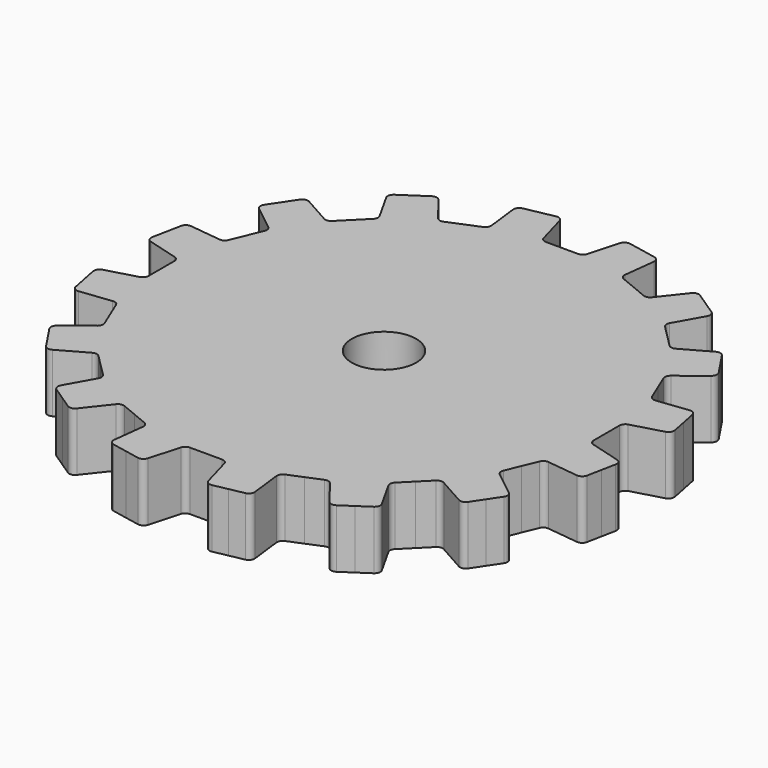
from build123d import *

# Parameters (mm, degrees)
F1_R     = 5.5
F2_DEPTH = 10


with BuildPart() as f2:
    # F1 (on Top) → F2 (new body)
    with BuildSketch(Plane.XY):
        with BuildLine():
            Line((2.75, 38), (0, 38))
            Line((0, 38), (-2.75, 38))
            ThreePointArc((-2.75, 38), (-3.353931, 38.202963), (-3.71271, 38.729465))
            Line((-3.71271, 38.729465), (-5.169301, 43.912813))
            ThreePointArc((-5.169301, 43.912813), (-5.609111, 44.494672), (-6.327101, 44.623063))
            Line((-6.327101, 44.623063), (-8.779064, 44.135338))
            Line((-8.779064, 44.135338), (-11.231028, 43.647612))
            ThreePointArc((-11.231028, 43.647612), (-11.845231, 43.254231), (-12.028895, 42.548355))
            Line((-12.028895, 42.548355), (-11.391028, 37.202153))
            ThreePointArc((-11.391028, 37.202153), (-11.521013, 36.57843), (-12.001302, 36.159802))
            Line((-12.001302, 36.159802), (-14.54197, 35.107422))
            Line((-14.54197, 35.107422), (-17.082639, 34.055043))
            ThreePointArc((-17.082639, 34.055043), (-17.718269, 34.011442), (-18.251222, 34.360568))
            Line((-18.251222, 34.360568), (-21.580517, 38.591943))
            ThreePointArc((-21.580517, 38.591943), (-22.209517, 38.961203), (-22.921986, 38.805058))
            Line((-22.921986, 38.805058), (-25.00066, 37.416133))
            Line((-25.00066, 37.416133), (-27.079335, 36.027207))
            ThreePointArc((-27.079335, 36.027207), (-27.496244, 35.428725), (-27.3958, 34.706295))
            Line((-27.3958, 34.706295), (-24.760585, 30.01115))
            ThreePointArc((-24.760585, 30.01115), (-24.641987, 29.385162), (-24.925514, 28.814601))
            Line((-24.925514, 28.814601), (-26.870058, 26.870058))
            Line((-26.870058, 26.870058), (-28.814601, 24.925514))
            ThreePointArc((-28.814601, 24.925514), (-29.385162, 24.641987), (-30.01115, 24.760585))
            Line((-30.01115, 24.760585), (-34.706295, 27.3958))
            ThreePointArc((-34.706295, 27.3958), (-35.428725, 27.496244), (-36.027207, 27.079335))
            Line((-36.027207, 27.079335), (-37.416133, 25.00066))
            Line((-37.416133, 25.00066), (-38.805058, 22.921986))
            ThreePointArc((-38.805058, 22.921986), (-38.961203, 22.209517), (-38.591943, 21.580517))
            Line((-38.591943, 21.580517), (-34.360568, 18.251222))
            ThreePointArc((-34.360568, 18.251222), (-34.011442, 17.718269), (-34.055043, 17.082639))
            Line((-34.055043, 17.082639), (-35.107422, 14.54197))
            Line((-35.107422, 14.54197), (-36.159802, 12.001302))
            ThreePointArc((-36.159802, 12.001302), (-36.57843, 11.521013), (-37.202153, 11.391028))
            Line((-37.202153, 11.391028), (-42.548355, 12.028895))
            ThreePointArc((-42.548355, 12.028895), (-43.254231, 11.845231), (-43.647612, 11.231028))
            Line((-43.647612, 11.231028), (-44.135338, 8.779064))
            Line((-44.135338, 8.779064), (-44.623063, 6.327101))
            ThreePointArc((-44.623063, 6.327101), (-44.494672, 5.609111), (-43.912813, 5.169301))
            Line((-43.912813, 5.169301), (-38.729465, 3.71271))
            ThreePointArc((-38.729465, 3.71271), (-38.202963, 3.353931), (-38, 2.75))
            Line((-38, 2.75), (-38, 0))
            Line((-38, 0), (-38, -2.75))
            ThreePointArc((-38, -2.75), (-38.202963, -3.353931), (-38.729465, -3.71271))
            Line((-38.729465, -3.71271), (-43.912813, -5.169301))
            ThreePointArc((-43.912813, -5.169301), (-44.494672, -5.609111), (-44.623063, -6.327101))
            Line((-44.623063, -6.327101), (-44.135338, -8.779064))
            Line((-44.135338, -8.779064), (-43.647612, -11.231028))
            ThreePointArc((-43.647612, -11.231028), (-43.254231, -11.845231), (-42.548355, -12.028895))
            Line((-42.548355, -12.028895), (-37.202153, -11.391028))
            ThreePointArc((-37.202153, -11.391028), (-36.57843, -11.521013), (-36.159802, -12.001302))
            Line((-36.159802, -12.001302), (-35.107422, -14.54197))
            Line((-35.107422, -14.54197), (-34.055043, -17.082639))
            ThreePointArc((-34.055043, -17.082639), (-34.011442, -17.718269), (-34.360568, -18.251222))
            Line((-34.360568, -18.251222), (-38.591943, -21.580517))
            ThreePointArc((-38.591943, -21.580517), (-38.961203, -22.209517), (-38.805058, -22.921986))
            Line((-38.805058, -22.921986), (-37.416133, -25.00066))
            Line((-37.416133, -25.00066), (-36.027207, -27.079335))
            ThreePointArc((-36.027207, -27.079335), (-35.428725, -27.496244), (-34.706295, -27.3958))
            Line((-34.706295, -27.3958), (-30.01115, -24.760585))
            ThreePointArc((-30.01115, -24.760585), (-29.385162, -24.641987), (-28.814601, -24.925514))
            Line((-28.814601, -24.925514), (-26.870058, -26.870058))
            Line((-26.870058, -26.870058), (-24.925514, -28.814601))
            ThreePointArc((-24.925514, -28.814601), (-24.641987, -29.385162), (-24.760585, -30.01115))
            Line((-24.760585, -30.01115), (-27.3958, -34.706295))
            ThreePointArc((-27.3958, -34.706295), (-27.496244, -35.428725), (-27.079335, -36.027207))
            Line((-27.079335, -36.027207), (-25.00066, -37.416133))
            Line((-25.00066, -37.416133), (-22.921986, -38.805058))
            ThreePointArc((-22.921986, -38.805058), (-22.209517, -38.961203), (-21.580517, -38.591943))
            Line((-21.580517, -38.591943), (-18.251222, -34.360568))
            ThreePointArc((-18.251222, -34.360568), (-17.718269, -34.011442), (-17.082639, -34.055043))
            Line((-17.082639, -34.055043), (-14.54197, -35.107422))
            Line((-14.54197, -35.107422), (-12.001302, -36.159802))
            ThreePointArc((-12.001302, -36.159802), (-11.521013, -36.57843), (-11.391028, -37.202153))
            Line((-11.391028, -37.202153), (-12.028895, -42.548355))
            ThreePointArc((-12.028895, -42.548355), (-11.845231, -43.254231), (-11.231028, -43.647612))
            Line((-11.231028, -43.647612), (-8.779064, -44.135338))
            Line((-8.779064, -44.135338), (-6.327101, -44.623063))
            ThreePointArc((-6.327101, -44.623063), (-5.609111, -44.494672), (-5.169301, -43.912813))
            Line((-5.169301, -43.912813), (-3.71271, -38.729465))
            ThreePointArc((-3.71271, -38.729465), (-3.353931, -38.202963), (-2.75, -38))
            Line((-2.75, -38), (0, -38))
            Line((0, -38), (2.75, -38))
            ThreePointArc((2.75, -38), (3.353931, -38.202963), (3.71271, -38.729465))
            Line((3.71271, -38.729465), (5.169301, -43.912813))
            ThreePointArc((5.169301, -43.912813), (5.609111, -44.494672), (6.327101, -44.623063))
            Line((6.327101, -44.623063), (8.779064, -44.135338))
            Line((8.779064, -44.135338), (11.231028, -43.647612))
            ThreePointArc((11.231028, -43.647612), (11.845231, -43.254231), (12.028895, -42.548355))
            Line((12.028895, -42.548355), (11.391028, -37.202153))
            ThreePointArc((11.391028, -37.202153), (11.521013, -36.57843), (12.001302, -36.159802))
            Line((12.001302, -36.159802), (14.54197, -35.107422))
            Line((14.54197, -35.107422), (17.082639, -34.055043))
            ThreePointArc((17.082639, -34.055043), (17.718269, -34.011442), (18.251222, -34.360568))
            Line((18.251222, -34.360568), (21.580517, -38.591943))
            ThreePointArc((21.580517, -38.591943), (22.209517, -38.961203), (22.921986, -38.805058))
            Line((22.921986, -38.805058), (25.00066, -37.416133))
            Line((25.00066, -37.416133), (27.079335, -36.027207))
            ThreePointArc((27.079335, -36.027207), (27.496244, -35.428725), (27.3958, -34.706295))
            Line((27.3958, -34.706295), (24.760585, -30.01115))
            ThreePointArc((24.760585, -30.01115), (24.641987, -29.385162), (24.925514, -28.814601))
            Line((24.925514, -28.814601), (26.870058, -26.870058))
            Line((26.870058, -26.870058), (28.814601, -24.925514))
            ThreePointArc((28.814601, -24.925514), (29.385162, -24.641987), (30.01115, -24.760585))
            Line((30.01115, -24.760585), (34.706295, -27.3958))
            ThreePointArc((34.706295, -27.3958), (35.428725, -27.496244), (36.027207, -27.079335))
            Line((36.027207, -27.079335), (37.416133, -25.00066))
            Line((37.416133, -25.00066), (38.805058, -22.921986))
            ThreePointArc((38.805058, -22.921986), (38.961203, -22.209517), (38.591943, -21.580517))
            Line((38.591943, -21.580517), (34.360568, -18.251222))
            ThreePointArc((34.360568, -18.251222), (34.011442, -17.718269), (34.055043, -17.082639))
            Line((34.055043, -17.082639), (35.107422, -14.54197))
            Line((35.107422, -14.54197), (36.159802, -12.001302))
            ThreePointArc((36.159802, -12.001302), (36.57843, -11.521013), (37.202153, -11.391028))
            Line((37.202153, -11.391028), (42.548355, -12.028895))
            ThreePointArc((42.548355, -12.028895), (43.254231, -11.845231), (43.647612, -11.231028))
            Line((43.647612, -11.231028), (44.135338, -8.779064))
            Line((44.135338, -8.779064), (44.623063, -6.327101))
            ThreePointArc((44.623063, -6.327101), (44.494672, -5.609111), (43.912813, -5.169301))
            Line((43.912813, -5.169301), (38.729465, -3.71271))
            ThreePointArc((38.729465, -3.71271), (38.202963, -3.353931), (38, -2.75))
            Line((38, -2.75), (38, 0))
            Line((38, 0), (38, 2.75))
            ThreePointArc((38, 2.75), (38.202963, 3.353931), (38.729465, 3.71271))
            Line((38.729465, 3.71271), (43.912813, 5.169301))
            ThreePointArc((43.912813, 5.169301), (44.494672, 5.609111), (44.623063, 6.327101))
            Line((44.623063, 6.327101), (44.135338, 8.779064))
            Line((44.135338, 8.779064), (43.647612, 11.231028))
            ThreePointArc((43.647612, 11.231028), (43.254231, 11.845231), (42.548355, 12.028895))
            Line((42.548355, 12.028895), (37.202153, 11.391028))
            ThreePointArc((37.202153, 11.391028), (36.57843, 11.521013), (36.159802, 12.001302))
            Line((36.159802, 12.001302), (35.107422, 14.54197))
            Line((35.107422, 14.54197), (34.055043, 17.082639))
            ThreePointArc((34.055043, 17.082639), (34.011442, 17.718269), (34.360568, 18.251222))
            Line((34.360568, 18.251222), (38.591943, 21.580517))
            ThreePointArc((38.591943, 21.580517), (38.961203, 22.209517), (38.805058, 22.921986))
            Line((38.805058, 22.921986), (37.416133, 25.00066))
            Line((37.416133, 25.00066), (36.027207, 27.079335))
            ThreePointArc((36.027207, 27.079335), (35.428725, 27.496244), (34.706295, 27.3958))
            Line((34.706295, 27.3958), (30.01115, 24.760585))
            ThreePointArc((30.01115, 24.760585), (29.385162, 24.641987), (28.814601, 24.925514))
            Line((28.814601, 24.925514), (26.870058, 26.870058))
            Line((26.870058, 26.870058), (24.925514, 28.814601))
            ThreePointArc((24.925514, 28.814601), (24.641987, 29.385162), (24.760585, 30.01115))
            Line((24.760585, 30.01115), (27.3958, 34.706295))
            ThreePointArc((27.3958, 34.706295), (27.496244, 35.428725), (27.079335, 36.027207))
            Line((27.079335, 36.027207), (25.00066, 37.416133))
            Line((25.00066, 37.416133), (22.921986, 38.805058))
            ThreePointArc((22.921986, 38.805058), (22.209517, 38.961203), (21.580517, 38.591943))
            Line((21.580517, 38.591943), (18.251222, 34.360568))
            ThreePointArc((18.251222, 34.360568), (17.718269, 34.011442), (17.082639, 34.055043))
            Line((17.082639, 34.055043), (14.54197, 35.107422))
            Line((14.54197, 35.107422), (12.001302, 36.159802))
            ThreePointArc((12.001302, 36.159802), (11.521013, 36.57843), (11.391028, 37.202153))
            Line((11.391028, 37.202153), (12.028895, 42.548355))
            ThreePointArc((12.028895, 42.548355), (11.845231, 43.254231), (11.231028, 43.647612))
            Line((11.231028, 43.647612), (8.779064, 44.135338))
            Line((8.779064, 44.135338), (6.327101, 44.623063))
            ThreePointArc((6.327101, 44.623063), (5.609111, 44.494672), (5.169301, 43.912813))
            Line((5.169301, 43.912813), (3.71271, 38.729465))
            ThreePointArc((3.71271, 38.729465), (3.353931, 38.202963), (2.75, 38))
        make_face()
        Circle(F1_R, mode=Mode.SUBTRACT)
    extrude(amount=F2_DEPTH)


solid = f2.part
